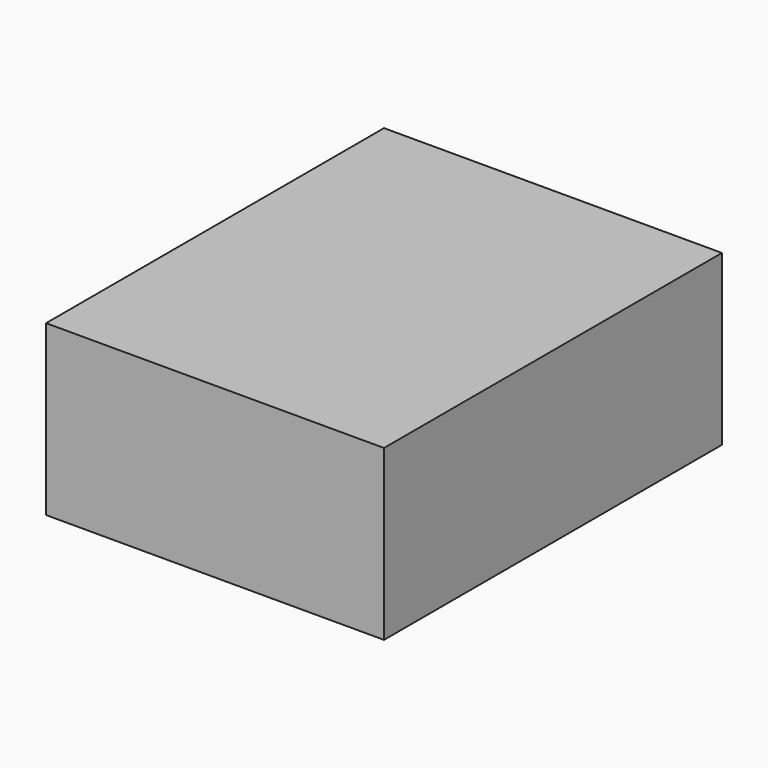
from build123d import *

# Parameters (mm, degrees)
F0_W      = 32
F0_H      = 40
F1_DEPTH  = 2
F3_W      = 22
F3_H      = 22
F4_DEPTH  = 10
F6_DEPTH  = 1
F7_DEPTH  = 1
F5_W      = 20
F5_H      = 6
F8_DEPTH  = 20
F9_W      = 12
F9_H      = 2
F10_DEPTH = 20
F11_W     = 12
F11_H     = 8
F12_DEPTH = 25
F13_W     = 14.6482707933
F13_H     = 4
F14_DEPTH = 25
F15_W     = 14
F15_H     = 14
F16_DEPTH = 5
F2_W      = 32
F2_H      = 40
F2_W_2    = 28
F2_H_2    = 36
F17_DEPTH = 14
F19_W     = 28
F19_H     = 2
F20_DEPTH = 14
F18_W     = 28
F18_H     = 2
F21_DEPTH = 38


with BuildPart() as f1:
    # F0 (on Top) → F1 (new body)
    with BuildSketch(Plane.XY):
        Rectangle(F0_W, F0_H)
    extrude(amount=F1_DEPTH)

    # F3 (on face) → F4 (join)
    with BuildSketch(Plane.XY.offset(2)):
        Rectangle(F3_W, F3_H)
    extrude(amount=F4_DEPTH)

    # F6 (add): a face of the model
    f6_faces = [f1.faces().sort_by_distance(p)[0] for p in [
        (-11, 0, 7),
    ]]
    extrude(f6_faces, amount=F6_DEPTH)

    # F7 (add): a face of the model
    f7_faces = [f1.faces().sort_by_distance(p)[0] for p in [
        (11, 0, 7),
    ]]
    extrude(f7_faces, amount=F7_DEPTH)

    # F5 (on face) → F8 (cut)
    with BuildSketch(Plane(origin=(0, 11, 0), x_dir=(-1, 0, 0), z_dir=(0, 1, 0))):
        with Locations((0, 7)):
            Rectangle(F5_W, F5_H)
    extrude(amount=-F8_DEPTH, mode=Mode.SUBTRACT)

    # F9 (on face) → F10 (cut)
    with BuildSketch(Plane(origin=(0, 11, 0), x_dir=(-1, 0, 0), z_dir=(0, 1, 0))):
        with Locations((0, 3)):
            Rectangle(F9_W, F9_H)
    extrude(amount=-F10_DEPTH, mode=Mode.SUBTRACT)

    # F11 (on face) → F12 (cut)
    with BuildSketch(Plane(origin=(-12, 0, 0), x_dir=(0, -1, 0), z_dir=(-1, 0, 0))):
        with Locations((0, 6)):
            Rectangle(F11_W, F11_H)
    extrude(amount=-F12_DEPTH, mode=Mode.SUBTRACT)

    # F13 (on face) → F14 (cut)
    with BuildSketch(Plane.XZ.offset(11)):
        with Locations((0, 6.5)):
            Rectangle(F13_W, F13_H)
    extrude(amount=-F14_DEPTH, mode=Mode.SUBTRACT)

    # F15 (on face) → F16 (cut)
    with BuildSketch(Plane.XY.offset(12)):
        Rectangle(F15_W, F15_H)
    extrude(amount=-F16_DEPTH, mode=Mode.SUBTRACT)

    # F2 (on face) → F17 (join)
    with BuildSketch(Plane.XY.offset(2)):
        Rectangle(F2_W, F2_H)
        Rectangle(F2_W_2, F2_H_2, mode=Mode.SUBTRACT)
    extrude(amount=F17_DEPTH)

    # F19 (on face) → F20 (cut)
    with BuildSketch(Plane.XY.offset(16)):
        with Locations((0, 19)):
            Rectangle(F19_W, F19_H)
    extrude(amount=-F20_DEPTH, mode=Mode.SUBTRACT)

    # F18 (on face) → F21 (join)
    with BuildSketch(Plane(origin=(0, -18, 0), x_dir=(-1, 0, 0), z_dir=(0, 1, 0))):
        with Locations((0, 15)):
            Rectangle(F18_W, F18_H)
    extrude(amount=F21_DEPTH)


solid = f1.part
